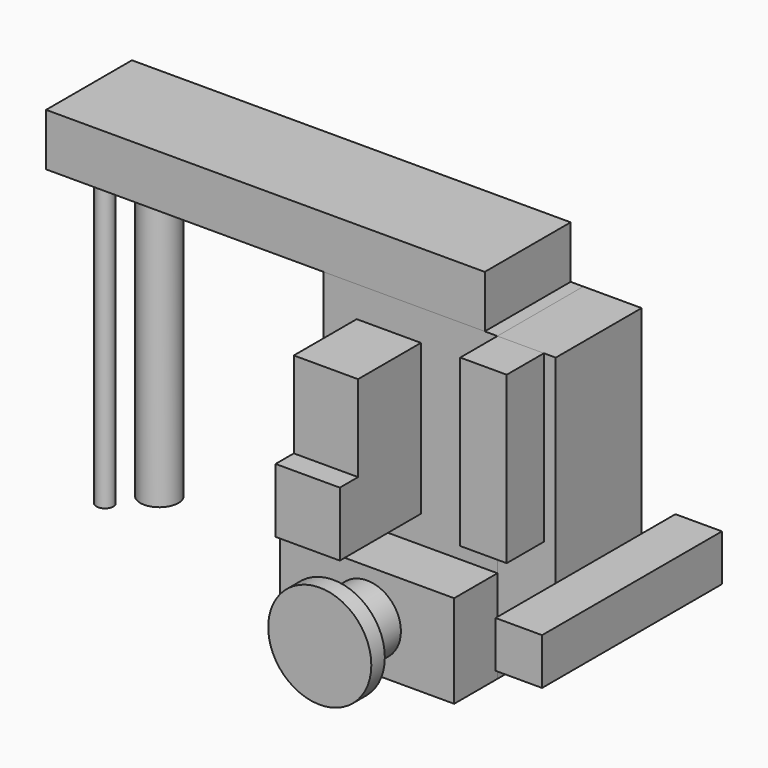
from build123d import *

# Parameters (mm, degrees)
F0_W      = 206
F0_H      = 357
F1_DEPTH  = 127
F2_W      = 519
F2_H      = 127
F3_DEPTH  = 62
F4_W      = 127
F4_H      = 322
F5_DEPTH  = 69
F6_W      = 55
F6_H      = 196.31
F7_DEPTH  = 55
F8_W      = 266
F8_H      = 55
F9_DEPTH  = 55
F10_W     = 76
F10_H     = 178
F11_DEPTH = 120
F12_W     = 86
F12_H     = 107
F13_DEPTH = 27
F14_W     = 206
F14_H     = 110
F15_DEPTH = 64
F16_R     = 40
F17_DEPTH = 50
F18_R     = 61
F19_DEPTH = 20
F20_W     = 206
F20_H     = 264
F21_DEPTH = 30
F22_R     = 15
F22_R_2   = 10
F23_DEPTH = 100
F24_R     = 22.5
F24_R_2   = 17.5
F24_R_3   = 10
F24_R_4   = 7.5
F25_DEPTH = 350


with BuildPart() as f1:
    # F0 (on Front) → F1 (new body)
    with BuildSketch(Plane.XZ):
        with Locations((-103, 178.5)):
            Rectangle(F0_W, F0_H)
    extrude(amount=-F1_DEPTH)


with BuildPart() as f3:
    # F2 (on face) → F3 (new body)
    with BuildSketch(Plane.XY.offset(357)):
        with Locations((-274.5, 63.5)):
            Rectangle(F2_W, F2_H)
    extrude(amount=F3_DEPTH)


with BuildPart() as f5:
    # F4 (on face) → F5 (new body)
    with BuildSketch(Plane.YZ):
        with Locations((63.5, 196)):
            Rectangle(F4_W, F4_H)
    extrude(amount=F5_DEPTH)


with BuildPart() as f7:
    # F6 (on face) → F7 (new body)
    with BuildSketch(Plane.XZ):
        with Locations((27.5, 258.845)):
            Rectangle(F6_W, F6_H)
    extrude(amount=F7_DEPTH)


with BuildPart() as f9:
    # F8 (on face) → F9 (new body)
    with BuildSketch(Plane.YZ.offset(69)):
        with Locations((44, 94.5)):
            Rectangle(F8_W, F8_H)
    extrude(amount=F9_DEPTH)


with BuildPart() as f11:
    # F10 (on face) → F11 (new body)
    with BuildSketch(Plane.XZ):
        with Locations((-128.5, 231.5)):
            Rectangle(F10_W, F10_H)
    extrude(amount=F11_DEPTH)

    # F12 (on face) → F13 (cut)
    with BuildSketch(Plane.XZ.offset(120)):
        with Locations((-128.5, 272)):
            Rectangle(F12_W, F12_H)
    extrude(amount=-F13_DEPTH, mode=Mode.SUBTRACT)


with BuildPart() as f15:
    # F14 (on face) → F15 (new body)
    with BuildSketch(Plane.XZ):
        with Locations((-103, 55)):
            Rectangle(F14_W, F14_H)
    extrude(amount=F15_DEPTH)

    # F16 (on face) → F17 (join)
    with BuildSketch(Plane.XZ.offset(64)):
        with Locations((-103, 55)):
            Circle(F16_R)
    extrude(amount=F17_DEPTH)

    # F18 (on face) → F19 (join)
    with BuildSketch(Plane.XZ.offset(114)):
        with Locations((-103, 55)):
            Circle(F18_R)
    extrude(amount=F19_DEPTH)


with BuildPart() as f21:
    # F20 (on face) → F21 (new body)
    with BuildSketch(Plane(origin=(0, 127, 0), x_dir=(-1, 0, 0), z_dir=(0, 1, 0))):
        with Locations((103, 132)):
            Rectangle(F20_W, F20_H)
    extrude(amount=F21_DEPTH)

    # F22 (on face) → F23 (join)
    with BuildSketch(Plane(origin=(0, 157, 0), x_dir=(-1, 0, 0), z_dir=(0, 1, 0))):
        with Locations((103, 110)):
            Circle(F22_R)
        with Locations((103, 110)):
            Circle(F22_R_2, mode=Mode.SUBTRACT)
    extrude(amount=F23_DEPTH)


with BuildPart() as f25:
    # F24 (on face) → F25 (new body)
    with BuildSketch(Plane(origin=(0, 0, 357), x_dir=(1, 0, 0), z_dir=(0, 0, -1))):
        with Locations((-464, -80)):
            Circle(F24_R)
        with Locations((-464, -80)):
            Circle(F24_R_2, mode=Mode.SUBTRACT)
        with Locations((-494, -37)):
            Circle(F24_R_3)
        with Locations((-494, -37)):
            Circle(F24_R_4, mode=Mode.SUBTRACT)
    extrude(amount=F25_DEPTH)


solid = Compound([f1.part, f3.part, f5.part, f7.part, f9.part, f11.part, f15.part, f21.part, f25.part])
